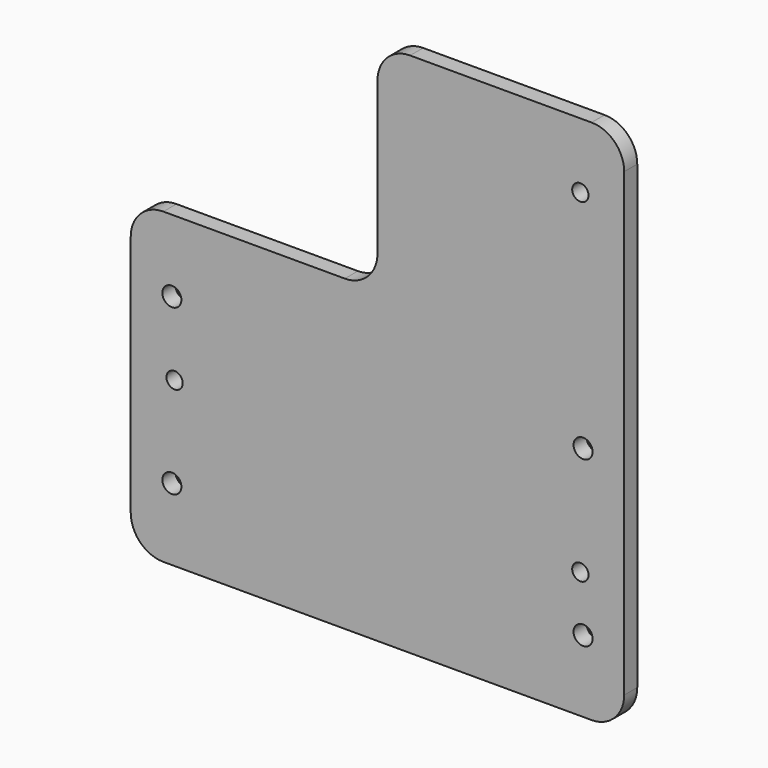
from build123d import *

# Parameters (mm, degrees)
F0_R     = 1.85
F0_R_2   = 1.5875
F1_DEPTH = 3.175


with BuildPart() as f1:
    # F0 (on Front) → F1 (new body)
    with BuildSketch(Plane.XZ):
        with BuildLine():
            ThreePointArc((-48, -23.65), (-46.140128, -28.140128), (-41.65, -30))
            Line((-41.65, -30), (41.65, -30))
            ThreePointArc((41.65, -30), (46.140128, -28.140128), (48, -23.65))
            Line((48, -23.65), (48, 30))
            Line((48, 30), (48, 65.99177))
            ThreePointArc((48, 65.99177), (46.140128, 70.481898), (41.65, 72.34177))
            Line((41.65, 72.34177), (6.35, 72.34177))
            ThreePointArc((6.35, 72.34177), (1.859872, 70.481898), (0, 65.99177))
            Line((0, 65.99177), (0, 36.35))
            ThreePointArc((0, 36.35), (-1.859872, 31.859872), (-6.35, 30))
            Line((-6.35, 30), (-41.65, 30))
            ThreePointArc((-41.65, 30), (-46.140128, 28.140128), (-48, 23.65))
            Line((-48, 23.65), (-48, -23.65))
        make_face()
        with Locations((-40, -16)):
            Circle(F0_R, mode=Mode.SUBTRACT)
        with Locations((-39.4716, 1.8262)):
            Circle(F0_R_2, mode=Mode.SUBTRACT)
        with Locations((-40, 16)):
            Circle(F0_R, mode=Mode.SUBTRACT)
        with Locations((40, -16)):
            Circle(F0_R, mode=Mode.SUBTRACT)
        with Locations((39.4716, -5.362)):
            Circle(F0_R_2, mode=Mode.SUBTRACT)
        with Locations((40, 16)):
            Circle(F0_R, mode=Mode.SUBTRACT)
        with Locations((39.4716, 59.662)):
            Circle(F0_R_2, mode=Mode.SUBTRACT)
    extrude(amount=F1_DEPTH)


solid = f1.part
